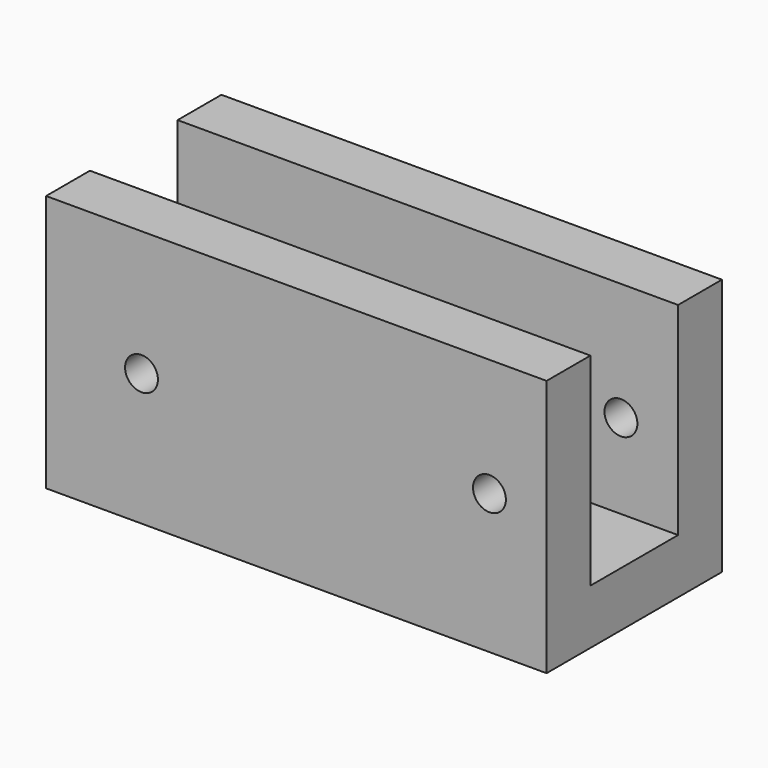
from build123d import *

# Parameters (mm, degrees)
F0_W     = 23.200736
F0_H     = 11.930093
F1_DEPTH = 10.16
F2_T     = -2.54
F4_D     = 1.524


with BuildPart() as f1:
    # F0 (on Front) → F1 (new body)
    with BuildSketch(Plane.XZ):
        with Locations((-46.540994, 30.285004)):
            Rectangle(F0_W, F0_H)
    extrude(amount=F1_DEPTH)

    # F2
    f2_openings = [f1.faces().sort_by_distance(p)[0] for p in [
        (-46.540994, -5.08, 36.250051),
        (-58.141362, -5.08, 30.285005),
        (-34.940626, -5.08, 30.285005),
    ]]
    offset(amount=F2_T, openings=f2_openings)

    # F4 (through all)
    with Locations(Plane(origin=(0, 0, 0), x_dir=(-1, 0, 0), z_dir=(0, 1, 0))):
        with Locations((37.589088, 30.788029), (53.718481, 30.440666)):
            Hole(F4_D / 2)


solid = f1.part
